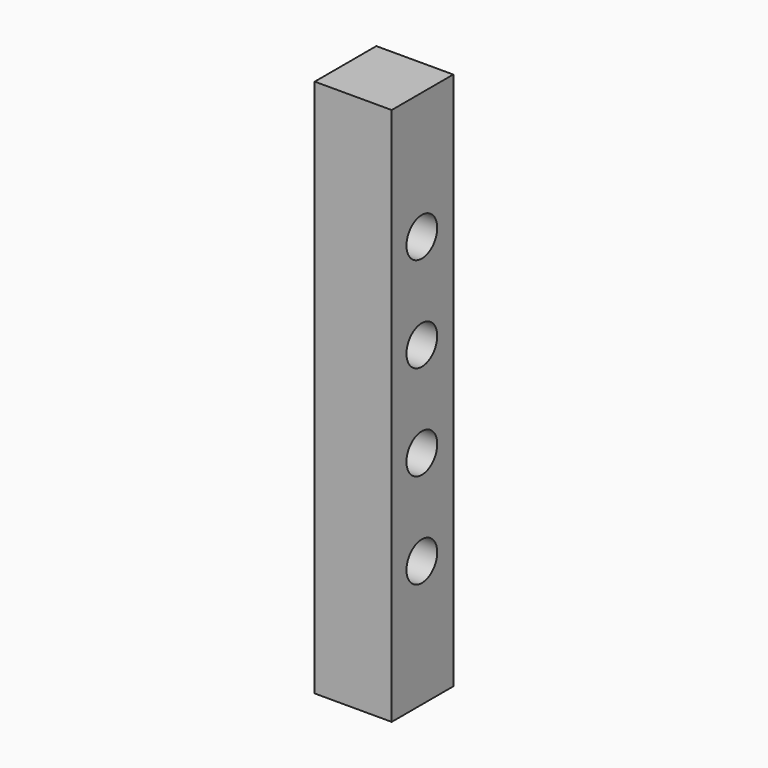
from build123d import *

# Parameters (mm, degrees)
F0_W     = 6.35
F0_H     = 44.45
F1_DEPTH = 6.35
F2_R     = 1.5875
F3_DEPTH = 6.35


with BuildPart() as f1:
    # F0 (on Front) → F1 (new body)
    with BuildSketch(Plane.XZ):
        Rectangle(F0_W, F0_H)
    extrude(amount=F1_DEPTH)

    # F2 (on face) → F3 (cut)
    with BuildSketch(Plane(origin=(-3.175, 0, 0), x_dir=(0, -1, 0), z_dir=(-1, 0, 0))):
        with Locations((3.239972, 11.75593)):
            Circle(F2_R)
        with Locations((3.239972, 3.900655)):
            Circle(F2_R)
        with Locations((3.239972, -3.954619)):
            Circle(F2_R)
        with Locations((3.239972, -11.809893)):
            Circle(F2_R)
    extrude(amount=-F3_DEPTH, mode=Mode.SUBTRACT)


solid = f1.part
